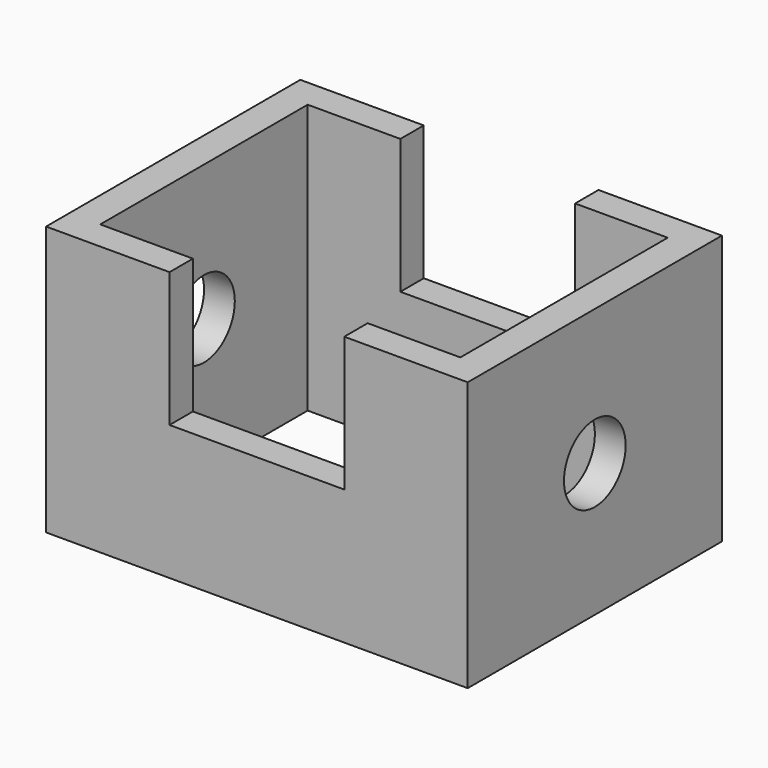
from build123d import *

# Parameters (mm, degrees)
F0_W     = 105.7792007923
F0_H     = 79.7204598784
F0_W_2   = 90.3369858861
F0_H_2   = 65.0503486395
F1_DEPTH = 67.564
F2_W     = 43.8358001411
F2_H     = 33.7584646449
F3_DEPTH = 96.012
F4_R     = 9.6723299626
F5_DEPTH = 129.032


with BuildPart() as f1:
    # F0 (on Top) → F1 (new body)
    with BuildSketch(Plane.XY):
        Rectangle(F0_W, F0_H)
        Rectangle(F0_W_2, F0_H_2, mode=Mode.SUBTRACT)
    extrude(amount=F1_DEPTH)

    # F2 (on face) → F3 (cut)
    with BuildSketch(Plane.XZ.offset(39.8602299392)):
        with Locations((0, 50.6847676775)):
            Rectangle(F2_W, F2_H)
    extrude(amount=-F3_DEPTH, mode=Mode.SUBTRACT)

    # F4 (on face) → F5 (cut)
    with BuildSketch(Plane.YZ.offset(52.8896003962)):
        with Locations((0, 33.4872640669)):
            Circle(F4_R)
    extrude(amount=-F5_DEPTH, mode=Mode.SUBTRACT)


solid = f1.part
